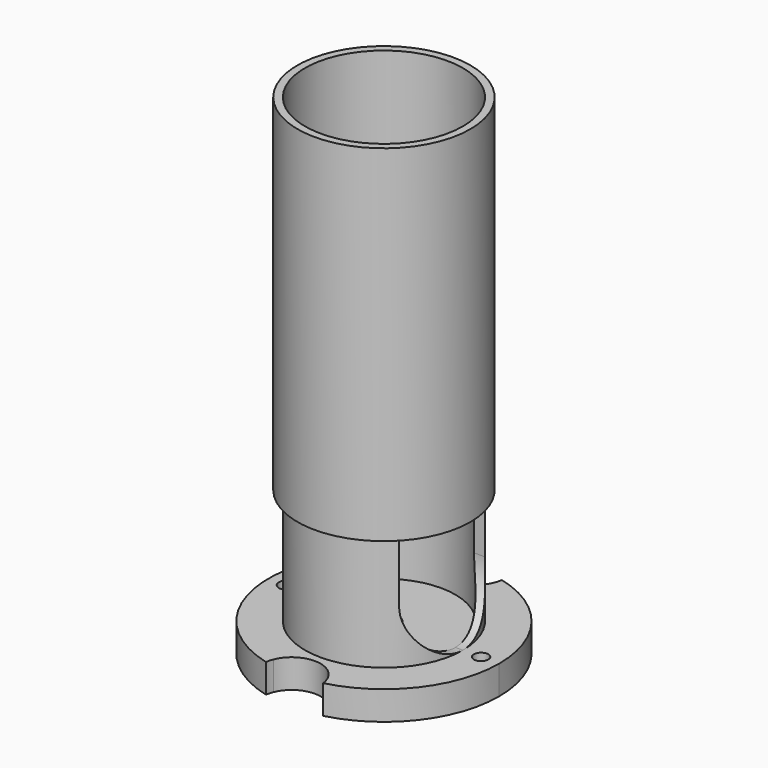
from build123d import *

# Parameters (mm, degrees)
F0_R          = 19.05
F0_R_2        = 17.399
F1_DEPTH      = 76.2
F2_R          = 17.399
F2_R_2        = 15.748
F3_DEPTH      = 25.4
F3_DEPTH_BACK = 12.7
F4_R          = 1.7442879666
F4_R_2        = 17.399
F4_R_3        = 1.5875
F4_R_4        = 15.748
F4_R_5        = 3.175
F5_DEPTH      = 6.35
F7_DEPTH      = 25.401
F7_DEPTH_BACK = 25.401
F8_DEPTH      = 3.302
F9_DEPTH      = 1.18745


with BuildPart() as f1:
    # F0 (on Top) → F1 (new body)
    with BuildSketch(Plane.XY):
        Circle(F0_R)
        Circle(F0_R_2, mode=Mode.SUBTRACT)
    extrude(amount=F1_DEPTH)


with BuildPart() as f3:
    # F2 (on Top) → F3 (new body, two sides)
    with BuildSketch(Plane.XY) as f3_sk:
        Circle(F2_R)
        Circle(F2_R_2, mode=Mode.SUBTRACT)
    extrude(amount=-F3_DEPTH)
    extrude(f3_sk.sketch, amount=F3_DEPTH_BACK)

    # F4 (on face) → F5 (join)
    with BuildSketch(Plane(origin=(0, 0, -25.4), x_dir=(1, 0, 0), z_dir=(0, 0, -1))):
        with BuildLine():
            ThreePointArc((23.8125, 0), (18.8106631264, 14.6011680696), (5.9064331026, 23.068359375))
            ThreePointArc((5.9064331026, 23.068359375), (0, 19.05), (-5.9064331026, 23.068359375))
            ThreePointArc((-5.9064331026, 23.068359375), (-23.8125, 0), (-5.9064331026, -23.068359375))
            ThreePointArc((-5.9064331026, -23.068359375), (0, -19.05), (5.9064331026, -23.068359375))
            ThreePointArc((5.9064331026, -23.068359375), (18.8106631264, -14.6011680696), (23.8125, 0))
        make_face()
        with Locations((-21.3995, 0)):
            Circle(F4_R, mode=Mode.SUBTRACT)
        Circle(F4_R_2, mode=Mode.SUBTRACT)
        with Locations((21.3995, 0)):
            Circle(F4_R_3, mode=Mode.SUBTRACT)
        with BuildLine():
            ThreePointArc((23.8125, 0), (18.8106631264, 14.6011680696), (5.9064331026, 23.068359375))
            ThreePointArc((5.9064331026, 23.068359375), (0, 19.05), (-5.9064331026, 23.068359375))
            ThreePointArc((-5.9064331026, 23.068359375), (-23.8125, 0), (-5.9064331026, -23.068359375))
            ThreePointArc((-5.9064331026, -23.068359375), (0, -19.05), (5.9064331026, -23.068359375))
            ThreePointArc((5.9064331026, -23.068359375), (18.8106631264, -14.6011680696), (23.8125, 0))
        make_face()
        with Locations((-21.3995, 0)):
            Circle(F4_R, mode=Mode.SUBTRACT)
        Circle(F4_R_2, mode=Mode.SUBTRACT)
        with Locations((21.3995, 0)):
            Circle(F4_R_3, mode=Mode.SUBTRACT)
        Circle(F4_R_2)
        Circle(F4_R_4, mode=Mode.SUBTRACT)
        Circle(F4_R_2)
        Circle(F4_R_4, mode=Mode.SUBTRACT)
        Circle(F4_R_4)
        Circle(F4_R_5, mode=Mode.SUBTRACT)
        with BuildLine():
            ThreePointArc((-5.9064331026, 23.068359375), (-6.1515625, 23.8249511726), (-6.3001953095, 24.60625))
            ThreePointArc((-6.3001953095, 24.60625), (-25.4, 0), (-6.3001953095, -24.60625))
            ThreePointArc((-6.3001953095, -24.60625), (-6.1515625, -23.8249511726), (-5.9064331026, -23.068359375))
            ThreePointArc((-5.9064331026, -23.068359375), (-23.8125, 0), (-5.9064331026, 23.068359375))
        make_face()
        with BuildLine():
            ThreePointArc((6.3001953095, -24.60625), (20.0647073348, -15.5745792742), (25.4, 0))
            ThreePointArc((25.4, 0), (20.0647073348, 15.5745792742), (6.3001953095, 24.60625))
            ThreePointArc((6.3001953095, 24.60625), (6.1515625, 23.8249511726), (5.9064331026, 23.068359375))
            ThreePointArc((5.9064331026, 23.068359375), (18.8106631264, 14.6011680696), (23.8125, 0))
            ThreePointArc((23.8125, 0), (18.8106631264, -14.6011680696), (5.9064331026, -23.068359375))
            ThreePointArc((5.9064331026, -23.068359375), (6.1515625, -23.8249511726), (6.3001953095, -24.60625))
        make_face()
        Circle(F4_R_5)
        with Locations((-21.3995, 0)):
            Circle(F4_R)
        with Locations((21.3995, 0)):
            Circle(F4_R_3)
    extrude(amount=F5_DEPTH)

    # F6 (on Right) → F7 (cut, two sides)
    with BuildSketch(Plane.YZ) as f7_sk:
        with BuildLine():
            ThreePointArc((2.9e-08, -25.4), (8.3460186097, -21.9429658941), (11.8030526951, -13.5969473049))
            ThreePointArc((11.8030526951, -13.5969473049), (0, -1.7938946098), (-11.8030526951, -13.5969473049))
            ThreePointArc((-11.8030526951, -13.5969473049), (-8.3460185892, -21.9429659146), (2.9e-08, -25.4))
        make_face()
        with BuildLine():
            ThreePointArc((-11.8030526951, -13.5969473049), (0, -1.7938946098), (11.8030526951, -13.5969473049))
            Line((11.8030526951, -13.5969473049), (11.8030526951, 28.5120714845))
            Line((11.8030526951, 28.5120714845), (-11.8030526951, 28.5120714845))
            Line((-11.8030526951, 28.5120714845), (-11.8030526951, -13.5969473049))
        make_face()
    extrude(amount=F7_DEPTH, mode=Mode.SUBTRACT)
    extrude(f7_sk.sketch, amount=-F7_DEPTH_BACK, mode=Mode.SUBTRACT)

    # F4 (on face) → F8 (cut)
    with BuildSketch(Plane(origin=(0, 0, -25.4), x_dir=(1, 0, 0), z_dir=(0, 0, -1))):
        with Locations((21.3995, 0)):
            Circle(F4_R_3)
        with Locations((-21.3995, 0)):
            Circle(F4_R)
    extrude(amount=F8_DEPTH, mode=Mode.SUBTRACT)

    # F4 (on face) → F9 (cut)
    with BuildSketch(Plane(origin=(0, 0, -25.4), x_dir=(1, 0, 0), z_dir=(0, 0, -1))):
        Circle(F4_R_5)
    extrude(amount=F9_DEPTH, mode=Mode.SUBTRACT)


solid = Compound([f1.part, f3.part])
